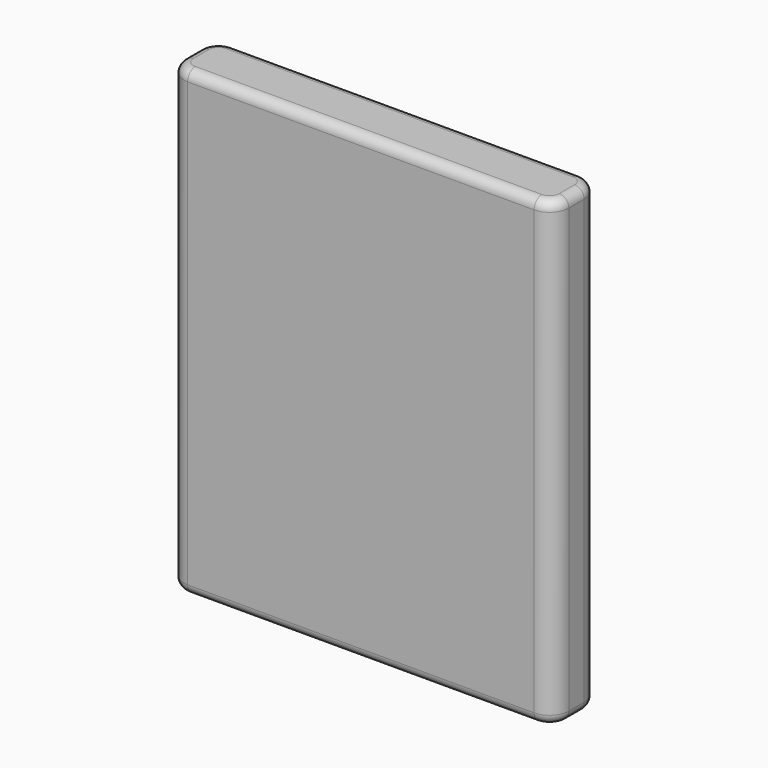
from build123d import *

# Parameters (mm, degrees)
F0_W     = 254
F0_H     = 304.8
F1_DEPTH = 19.05
F2_R     = 12.7
F3_R     = 6.35


with BuildPart() as f1:
    # F0 (on Front) → F1 (new body, symmetric)
    with BuildSketch(Plane.XZ):
        with Locations((127, 152.4)):
            Rectangle(F0_W, F0_H)
    extrude(amount=F1_DEPTH, both=True)

    # F2
    f2_edges = [f1.edges().sort_by_distance(p)[0] for p in [
        (0, -19.05, 152.4),
        (254, -19.05, 152.4),
        (254, 19.05, 152.4),
        (0, 19.05, 152.4),
    ]]
    fillet(f2_edges, radius=F2_R)

    # F3
    f3_edges = [f1.edges().sort_by_distance(p)[0] for p in [
        (127, -19.05, 304.8),
        (127, -19.05, 0),
    ]]
    fillet(f3_edges, radius=F3_R)


solid = f1.part
